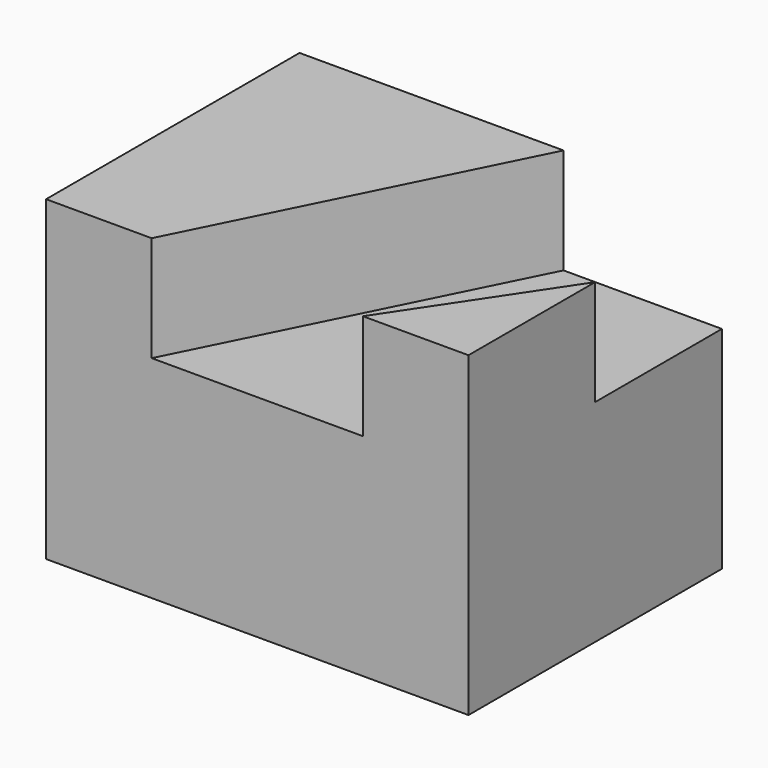
from build123d import *

# Parameters (mm, degrees)
F0_W     = 101.6
F0_H     = 50.8
F1_DEPTH = 76.2
F3_DEPTH = 25.4
F5_DEPTH = 25.4


with BuildPart() as f1:
    # F0 (on Front) → F1 (new body)
    with BuildSketch(Plane.XZ):
        with Locations((4.822348, -29.982933)):
            Rectangle(F0_W, F0_H)
    extrude(amount=F1_DEPTH)

    # F2 (on face) → F3 (join)
    with BuildSketch(Plane.XY.offset(-4.582933)):
        Polygon((30.222348, -76.2), (55.622348, -76.2), (55.622348, -38.1), align=None)
    extrude(amount=F3_DEPTH)

    # F4 (on face) → F5 (join)
    with BuildSketch(Plane.XY.offset(-4.582933)):
        Polygon((-45.977652, 0), (-45.977652, -76.2), (-20.577652, -76.2), (17.522348, 0), align=None)
    extrude(amount=F5_DEPTH)


solid = f1.part
